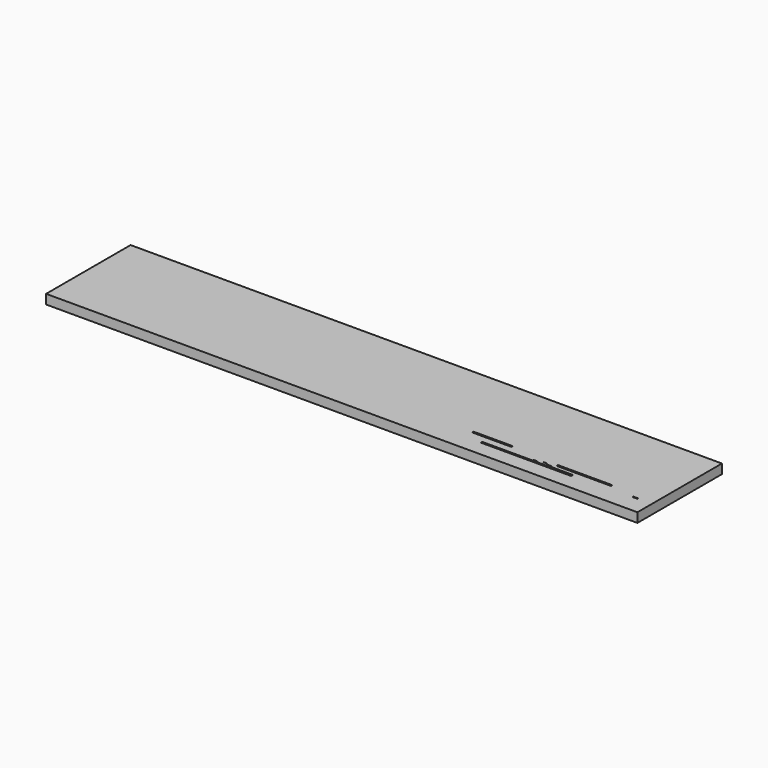
from build123d import *

# Parameters (mm, degrees)
F0_W     = 1570.090592
F0_H     = 280.429076
F0_W_2   = 103.658766
F0_H_2   = 4.515674
F0_W_3   = 11.288195
F0_H_3   = 1.529689
F0_W_4   = 0.172824
F0_H_4   = 1.568052
F0_W_5   = 11.857286
F0_H_5   = 1.361676
F0_W_6   = 14.053285
F0_H_6   = 0.829553
F0_W_7   = 12.576282
F0_H_7   = 2.731625
F0_W_8   = 144.339084
F0_H_8   = 4.521026
F1_DEPTH = 25


with BuildPart() as f1:
    # F0 (on Top) → F1 (new body)
    with BuildSketch(Plane.XY):
        with Locations((-341.946453, 102.304155)):
            Rectangle(F0_W, F0_H)
        with Locations((3.491953, 30.238768)):
            Rectangle(F0_W_2, F0_H_2, mode=Mode.SUBTRACT)
        Polygon((114.178963, 3.437468), (-5.49449, 3.437468), (-5.49449, 7.963303), (114.178963, 7.963303), (167.111993, 7.963303), (179.547533, 7.963303), (179.547533, 9.387144), (234.135687, 9.387144), (234.135687, 4.629135), (233.852416, 4.629135), (233.852416, 3.437468), (167.111993, 3.437468), align=None, mode=Mode.SUBTRACT)
        with Locations((132.608905, 10.247366)):
            Rectangle(F0_W_3, F0_H_3, mode=Mode.SUBTRACT)
        with Locations((150.00771, 11.890458)):
            Rectangle(F0_W_4, F0_H_4, mode=Mode.SUBTRACT)
        with Locations((168.930627, 11.907446)):
            Rectangle(F0_W_5, F0_H_5, mode=Mode.SUBTRACT)
        with Locations((154.621362, 15.909721)):
            Rectangle(F0_W_6, F0_H_6, mode=Mode.SUBTRACT)
        with Locations((399.00133, 10.414176)):
            Rectangle(F0_W_7, F0_H_7, mode=Mode.SUBTRACT)
        with Locations((254.24999, 22.304791)):
            Rectangle(F0_W_8, F0_H_8, mode=Mode.SUBTRACT)
    extrude(amount=F1_DEPTH)


solid = f1.part
